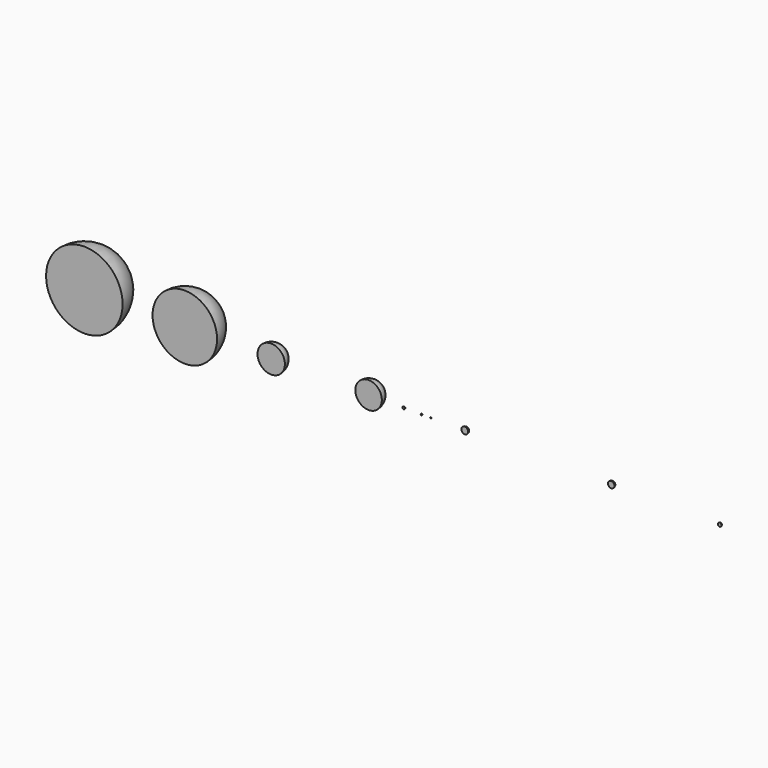
from build123d import *

# Parameters (mm, degrees)
F1_ANGLE = 180


with BuildPart() as f1:
    # F0 (on Front) → F1 (revolve)
    with BuildSketch(Plane.XZ):
        with BuildLine():
            Line((-1465.178906, 0), (-1165.178906, 0))
            ThreePointArc((-1165.178906, 0), (-1315.178906, 150), (-1465.178906, 0))
        make_face()
        with BuildLine():
            Line((-1047.676783, 0), (-794.774783, 0))
            ThreePointArc((-794.774783, 0), (-921.225783, 126.451), (-1047.676783, 0))
        make_face()
        with BuildLine():
            Line((-636.148134, 0), (-528.896134, 0))
            ThreePointArc((-528.896134, 0), (-582.522134, 53.626), (-636.148134, 0))
        make_face()
        with BuildLine():
            Line((-252.479797, 0), (-148.679797, 0))
            ThreePointArc((-148.679797, 0), (-200.579797, 51.9), (-252.479797, 0))
        make_face()
        with BuildLine():
            Line((163.258278, 0), (189.858278, 0))
            ThreePointArc((189.858278, 0), (176.558278, 13.3), (163.258278, 0))
        make_face()
        with BuildLine():
            Line((738.072847, 0), (763.272847, 0))
            ThreePointArc((763.272847, 0), (750.672847, 12.6), (738.072847, 0))
        make_face()
        with BuildLine():
            Line((1168.853941, 0), (1182.853941, 0))
            ThreePointArc((1182.853941, 0), (1175.853941, 7), (1168.853941, 0))
        make_face()
        with BuildLine():
            Line((-68.121341, 0), (-58.121341, 0))
            ThreePointArc((-58.121341, 0), (-63.121341, 5), (-68.121341, 0))
        make_face()
        with BuildLine():
            Line((3.857207, 0), (9.857207, 0))
            ThreePointArc((9.857207, 0), (6.857207, 3), (3.857207, 0))
        make_face()
        with BuildLine():
            Line((40.804369, 0), (45.804369, 0))
            ThreePointArc((45.804369, 0), (43.304369, 2.5), (40.804369, 0))
        make_face()
    revolve(axis=Axis((-1315.178906, 0, 0), (-1, 0, 0)), revolution_arc=F1_ANGLE)


solid = f1.part
